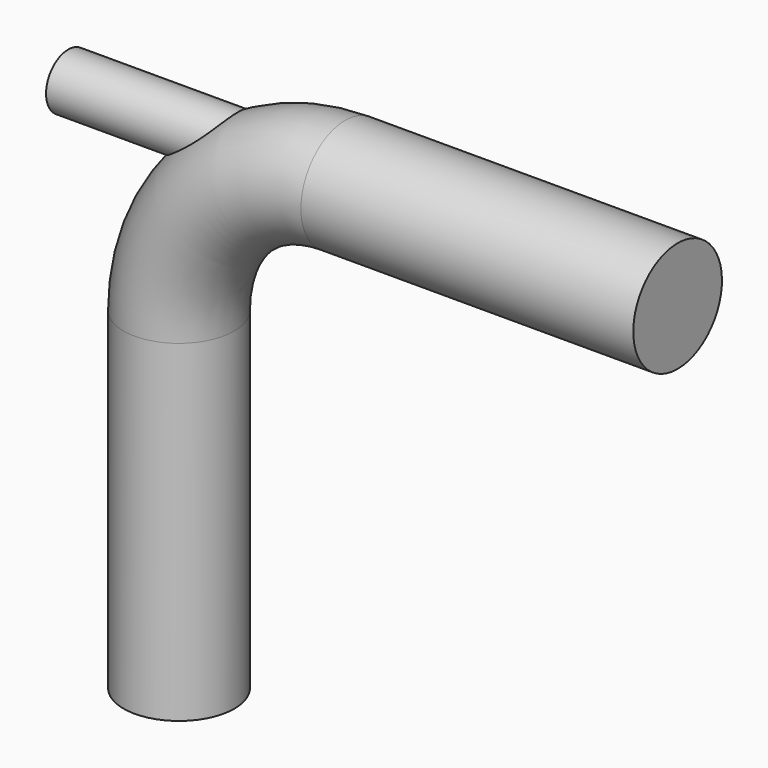
from build123d import *

# Parameters (mm, degrees)
F1_R     = 500
F4_R     = 250
F5_DEPTH = 3000


with BuildPart() as f2:
    # F2: sweep along a path in F0
    with BuildLine(Plane.XZ) as f2_path:
        Line((0, 0), (0, 3000))
        ThreePointArc((0, 3000), (439.3398282202, 4060.6601717798), (1500, 4500))
        Line((1500, 4500), (4500, 4500))
    # F1 (on Top) → F2 (sweep)
    with BuildSketch(Plane.XY):
        Circle(F1_R)
    sweep(path=f2_path.line)

    # F4 (on offset) → F5 (join)
    with BuildSketch(Plane.YZ.offset(-1000)):
        with Locations((0, 4500)):
            Circle(F4_R)
    extrude(amount=F5_DEPTH)


solid = f2.part
